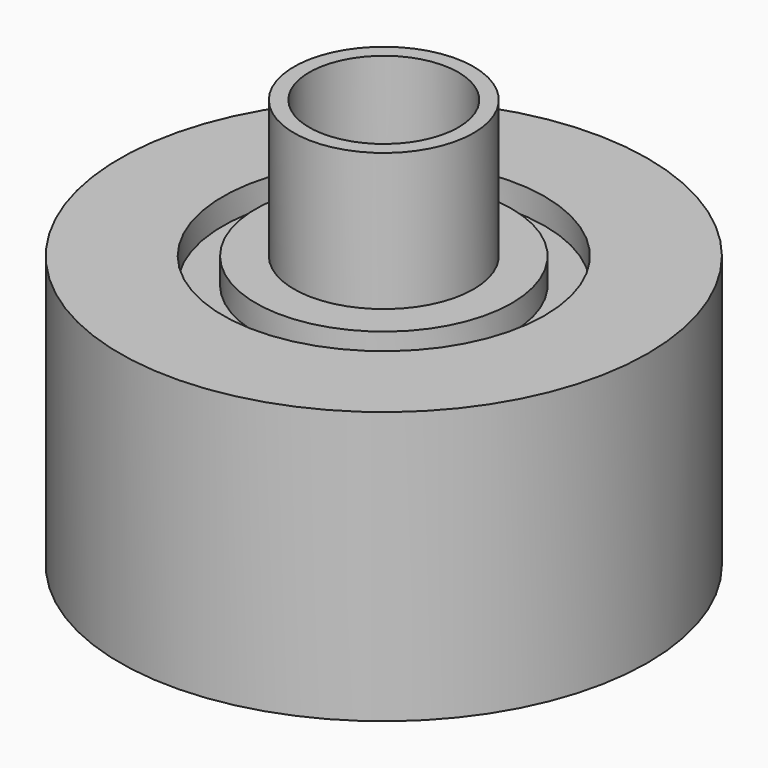
from build123d import *

# Parameters (mm, degrees)
F2_R      = 6.960541
F2_R_2    = 4.7625
F3_DEPTH  = 9.525
F3_FACE_R = 4.7625
F4_DEPTH  = 19.05


with BuildPart() as f1:
    # F0 (on Front) → F1 (revolve)
    with BuildSketch(Plane.XZ):
        Polygon((0, 44.39796), (0, 0), (24.639201, 6.170073), (24.639201, 31.570073), (15.024917, 31.570073), (15.024917, 29.15796), (11.938, 29.15796), (11.938, 31.570073), (8.382, 31.570073), (8.382, 44.39796), align=None)
    revolve(axis=Axis((0, 0, 22.19898), (0, 0, -1)))

    # F2 (on face) → F3 (cut)
    with BuildSketch(Plane.XY.offset(44.39796)):
        Circle(F2_R)
        Circle(F2_R_2, mode=Mode.SUBTRACT)
    extrude(amount=-F3_DEPTH, mode=Mode.SUBTRACT)

    # F3_face (on face) → F4 (cut)
    with BuildSketch(Plane.XY.offset(44.39796)):
        Circle(F3_FACE_R)
    extrude(amount=-F4_DEPTH, mode=Mode.SUBTRACT)


solid = f1.part
